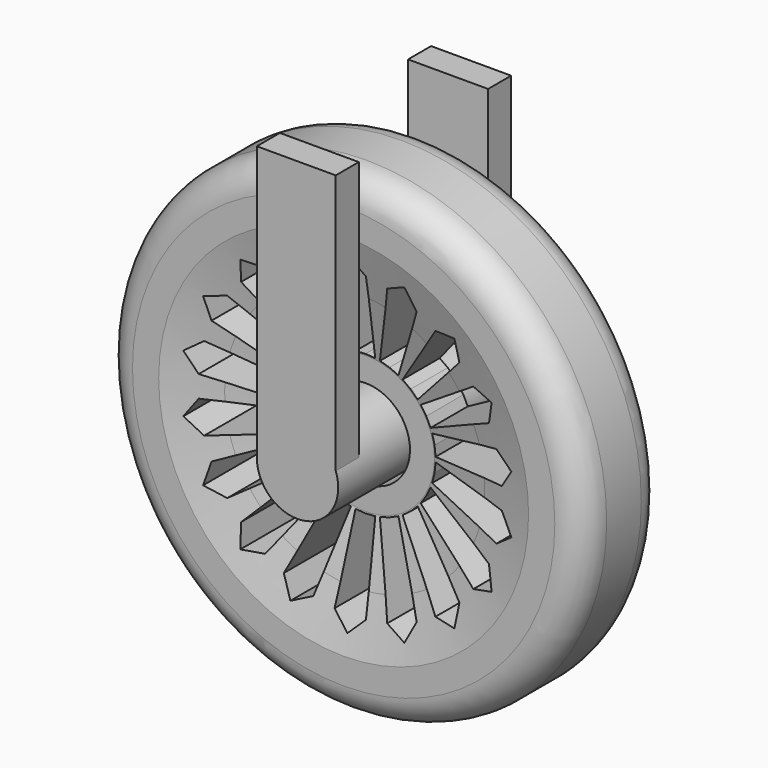
from build123d import *

# Parameters (mm, degrees)
F3_DEPTH  = 12.7
F4_COUNT  = 18
F5_R      = 5.08
F7_DEPTH  = 19.05
F9_DEPTH  = 5.08
F10_W     = 14.1079074888
F10_H     = 48.4530908
F11_DEPTH = 5.08


with BuildPart() as f1:
    # F0 (on Right) → F1 (revolve)
    with BuildSketch(Plane.YZ):
        Polygon((8.890000172, 32.5966663659), (8.890000172, 42.2948487103), (-8.890000172, 42.2948487103), (-8.890000172, 32.5966663659), (-6.4654550515, 22.8984840214), (-4.0409099311, 12.1227288619), (-4.0409099311, 9.9675767124), (-4.0409099311, 7.8124245629), (4.0409099311, 7.8124245629), (4.0409099311, 9.9675767124), (4.0409099311, 12.1227288619), (6.4654550515, 22.8984840214), align=None)
    revolve(axis=Axis((0, 0.1244733576, 0), (0, 1, 0)))

    # F2 (on Front) → F3 (cut, symmetric)
    with BuildSketch(Plane.XZ):
        Polygon((-2.760929754, 26.6372486949), (-1.7415342154, 12.2524425387), (0, 12.3758583283), (1.7415342154, 12.2524425387), (2.760929754, 26.6372486949), (0, 29.3556377292), align=None)
    f3 = extrude(amount=F3_DEPTH, both=True, mode=Mode.SUBTRACT)

    # F4: F3 ×18 about axis
    f4_axis = Axis((0, -6.4654550515, 0), (0, 1, 0))
    for i in range(1, F4_COUNT):
        add(f3.rotate(f4_axis, i * 360 / F4_COUNT), mode=Mode.SUBTRACT)

    # F5
    f5_edges = [f1.edges().sort_by_distance(p)[0] for p in [
        (0, 8.89, -42.294849),
        (0, -8.89, -42.294849),
        (0, 0, 42.294849),
        (0, 8.89, -32.596666),
    ]]
    fillet(f5_edges, radius=F5_R)


with BuildPart() as f7:
    # F6 (on Front) → F7 (new body, symmetric)
    with BuildSketch(Plane.XZ):
        with BuildLine():
            ThreePointArc((-7.1685596554, 0), (0, -7.1685596554), (7.1685596554, 0))
            ThreePointArc((7.1685596554, 0), (0, 7.1685596554), (-7.1685596554, 0))
        make_face()
    extrude(amount=F7_DEPTH, both=True)

    # F8 (on face) → F9 (join)
    with BuildSketch(Plane.XZ.offset(19.05)):
        with BuildLine():
            Line((-7.1685596554, 48.3252182603), (-7.1685596554, 0))
            ThreePointArc((-7.1685596554, 0), (-1.2567801356, 7.0575315248), (6.7278863862, 2.4746297312))
            Line((6.7278863862, 2.4746297312), (6.7278863862, 48.3252182603))
            Line((6.7278863862, 48.3252182603), (-7.1685596554, 48.3252182603))
        make_face()
    extrude(amount=-F9_DEPTH)

    # F10 (on face) → F11 (join)
    with BuildSketch(Plane(origin=(0, 19.05, 0), x_dir=(-1, 0, 0), z_dir=(0, 1, 0))):
        with Locations((-0.114605911, 24.2265454)):
            Rectangle(F10_W, F10_H)
    extrude(amount=-F11_DEPTH)


solid = Compound([f1.part, f7.part])
